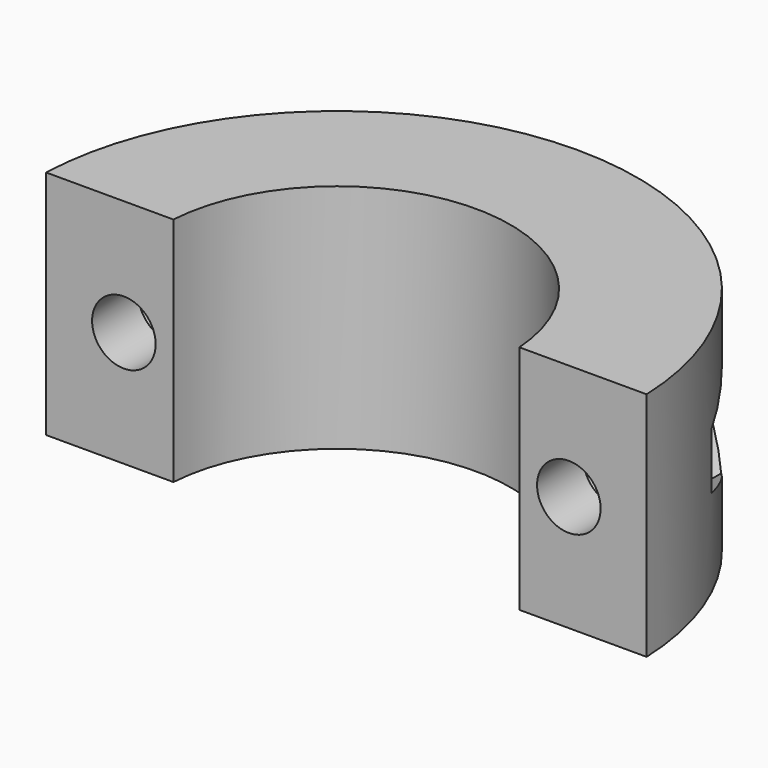
from build123d import *

# Parameters (mm, degrees)
PAD_DEPTH       = 20
SKETCH001_R     = 2.75
POCKET_DEPTH    = 25.001
SKETCH002_R     = 4.75
POCKET001_DEPTH = 20.001


with BuildPart() as part:
    # Sketch → Pad (new body)
    with BuildSketch(Plane.XY):
        with BuildLine():
            ThreePointArc((14.96663, 0), (0, 14), (-14.96663, 0))
            Line((-25.980762, 0), (-14.96663, 0))
            ThreePointArc((25.980762, 0), (0, 25), (-25.980762, 0))
            Line((14.96663, 0), (25.980762, 0))
        make_face()
    extrude(amount=PAD_DEPTH)

    # Sketch001 (on Face2 of Pad) → Pocket (cut, through all)
    with BuildSketch(Plane.XZ):
        with Locations((-19.25, 10)):
            Circle(SKETCH001_R)
        with Locations((19.25, 10)):
            Circle(SKETCH001_R)
    extrude(amount=-POCKET_DEPTH, mode=Mode.SUBTRACT)

    # Sketch002 (on DatumPlane) → Pocket001 (cut, through all)
    with BuildSketch(Plane.XZ.offset(-5)):
        with Locations((-19.25, 10)):
            Circle(SKETCH002_R)
        Polygon((19.25, 5.092523), (23.5, 7.546261), (23.5, 12.453739), (19.25, 14.907477), (15, 12.453739), (15, 7.546261), align=None)
    extrude(amount=-POCKET001_DEPTH, mode=Mode.SUBTRACT)


solid = part.part
